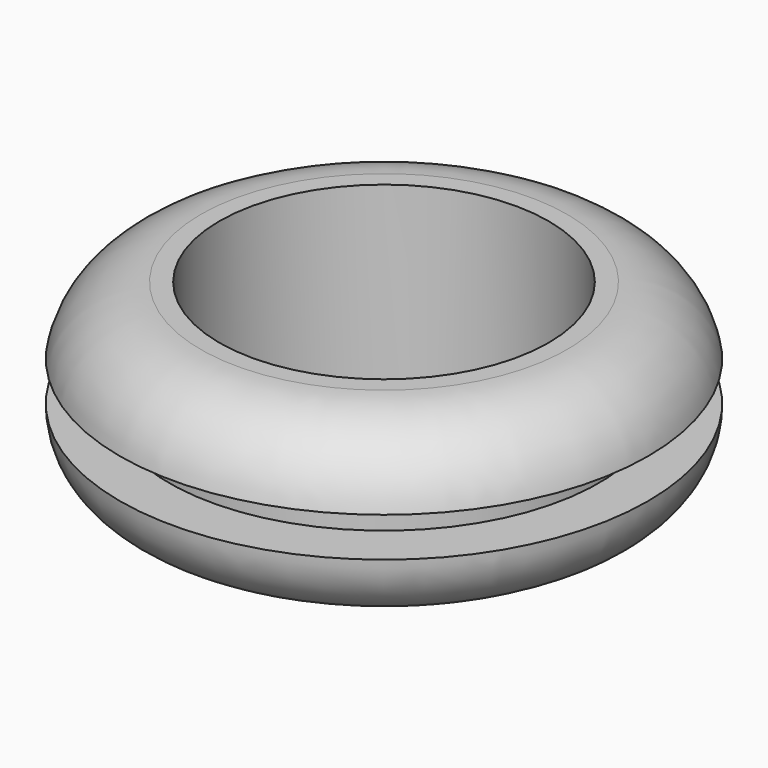
from build123d import *

# Parameters (mm, degrees)
F2_R     = 6.35
F3_DEPTH = 6.732


with BuildPart() as f1:
    # F0 (on Front) → F1 (revolve)
    with BuildSketch(Plane.XZ):
        with BuildLine():
            Line((-7.5819, 0), (0, 0))
            Line((0, 0), (0, 6.731))
            Line((0, 6.731), (-7.062259, 6.731))
            ThreePointArc((-7.062259, 6.731), (-9.09525, 5.994764), (-10.1854, 4.1275))
            Line((-10.1854, 4.1275), (-8.2931, 4.1275))
            Line((-8.2931, 4.1275), (-8.2931, 2.6035))
            Line((-8.2931, 2.6035), (-10.1854, 2.6035))
            ThreePointArc((-10.1854, 2.6035), (-9.422853, 0.762547), (-7.5819, 0))
        make_face()
    revolve(axis=Axis((0, 0, 3.3655), (0, 0, 1)))

    # F2 (on face) → F3 (cut, through all)
    with BuildSketch(Plane.XY.offset(6.731)):
        Circle(F2_R)
    extrude(amount=-F3_DEPTH, mode=Mode.SUBTRACT)


solid = f1.part
